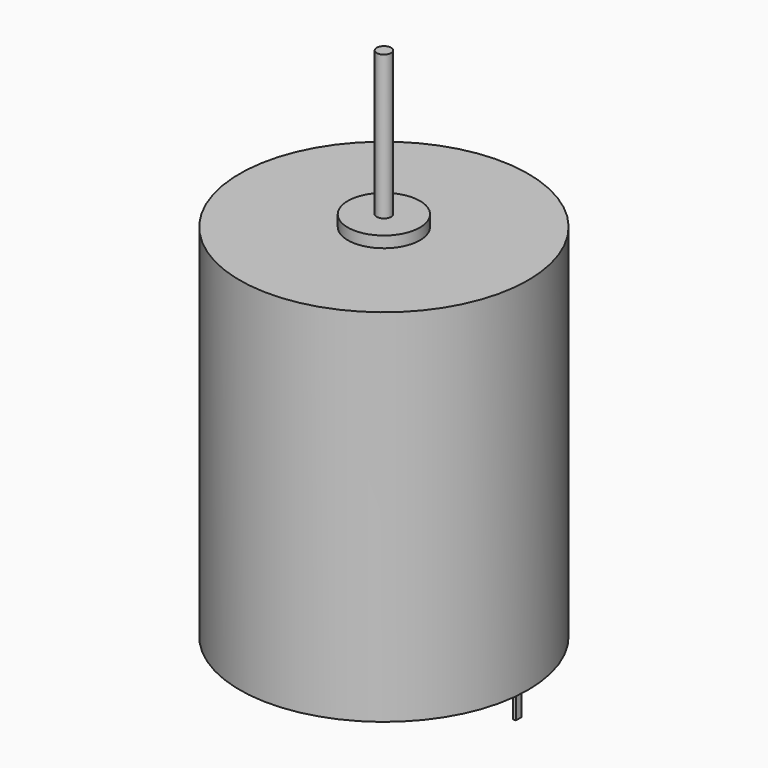
from build123d import *

# Parameters (mm, degrees)
F0_R     = 12.7
F1_DEPTH = 31.75
F2_R     = 3.175
F3_DEPTH = 0.98905
F4_R     = 0.635
F5_DEPTH = 12.7
F6_W     = 0.254
F6_H     = 0.635
F7_DEPTH = 2.54


with BuildPart() as f1:
    # F0 (on Top) → F1 (new body)
    with BuildSketch(Plane.XY):
        Circle(F0_R)
    extrude(amount=F1_DEPTH)

    # F2 (on face) → F3 (join)
    with BuildSketch(Plane.XY.offset(31.75)):
        Circle(F2_R)
    extrude(amount=F3_DEPTH)

    # F6 (on face) → F7 (join)
    with BuildSketch(Plane(origin=(0, 0, 0), x_dir=(1, 0, 0), z_dir=(0, 0, -1))):
        with Locations((11.706186, -0.052551)):
            Rectangle(F6_W, F6_H)
        with Locations((-11.226546, -0.052551)):
            Rectangle(F6_W, F6_H)
    extrude(amount=F7_DEPTH)


with BuildPart() as f5:
    # F4 (on face) → F5 (new body)
    with BuildSketch(Plane.XY.offset(32.73905)):
        Circle(F4_R)
    extrude(amount=F5_DEPTH)


solid = Compound([f1.part, f5.part])
